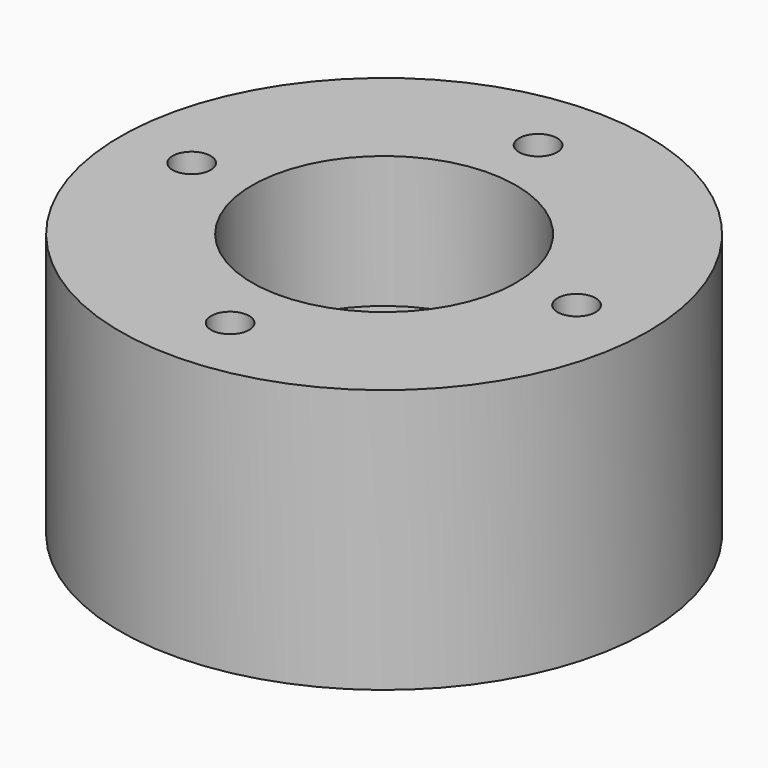
from build123d import *

# Parameters (mm, degrees)
F0_R           = 30.48
F0_R_2         = 11.049
F1_DEPTH       = 30.48
F2_R           = 15.24
F3_DEPTH       = 15.24
F4_R           = 12.6365
F4_R_2         = 11.049
F5_DEPTH       = 7.112
F6_SIZE2       = 0.254
F6_SIZE        = 0.0680590949
F8_D           = 4.4
F8_CBORE_D     = 8.25
F8_CBORE_DEPTH = 10
F10_D          = 4.0386
F10_DEPTH      = 15.24
F10_TIP        = 1.213317848
F11_R          = 17.4244
F11_R_2        = 14.224
F12_DEPTH      = 1.2954
F13_R          = 0.4064


with BuildPart() as f1:
    # F0 (on Top) → F1 (new body)
    with BuildSketch(Plane.XY):
        Circle(F0_R)
        Circle(F0_R_2, mode=Mode.SUBTRACT)
    extrude(amount=F1_DEPTH)

    # F2 (on face) → F3 (cut)
    with BuildSketch(Plane.XY.offset(30.48)):
        Circle(F2_R)
    extrude(amount=-F3_DEPTH, mode=Mode.SUBTRACT)

    # F4 (on face) → F5 (cut)
    with BuildSketch(Plane(origin=(0, 0, 0), x_dir=(1, 0, 0), z_dir=(0, 0, -1))):
        Circle(F4_R)
        Circle(F4_R_2, mode=Mode.SUBTRACT)
    extrude(amount=-F5_DEPTH, mode=Mode.SUBTRACT)

    # F6
    f6_edges = [f1.edges().sort_by_distance(p)[0] for p in [
        (-11.049, 0, 15.24),
        (-12.6365, 0, 0),
        (-11.049, 0, 7.112),
    ]]
    chamfer(f6_edges, length=F6_SIZE, length2=F6_SIZE2)

    # F8 (through all)
    with Locations(Plane(origin=(0, 0, 0), x_dir=(1, 0, 0), z_dir=(0, 0, -1))):
        with Locations((0, -22.225), (-22.225, 0), (0, 22.225), (22.225, 0)):
            CounterBoreHole(F8_D / 2, F8_CBORE_D / 2, F8_CBORE_DEPTH)

    # F10
    with Locations(Plane(origin=(0, 0, 0), x_dir=(1, 0, 0), z_dir=(0, 0, -1))):
        with Locations((-19.2474145991, 11.1125), (11.1125, 19.2474145991), (19.2474145991, -11.1125), (-11.1125, -19.2474145991)):
            Hole(F10_D / 2, depth=F10_DEPTH)
            with Locations((0, 0, -(F10_DEPTH + F10_TIP / 2))):  # 118° drill point
                Cone(0, F10_D / 2, F10_TIP, mode=Mode.SUBTRACT)

    # F11 (on face) → F12 (cut)
    with BuildSketch(Plane(origin=(0, 0, 0), x_dir=(1, 0, 0), z_dir=(0, 0, -1))):
        Circle(F11_R)
        Circle(F11_R_2, mode=Mode.SUBTRACT)
    extrude(amount=-F12_DEPTH, mode=Mode.SUBTRACT)

    # F13
    f13_edges = [f1.edges().sort_by_distance(p)[0] for p in [
        (-14.224, 0, 1.2954),
        (-17.4244, 0, 1.2954),
    ]]
    fillet(f13_edges, radius=F13_R)


solid = f1.part
